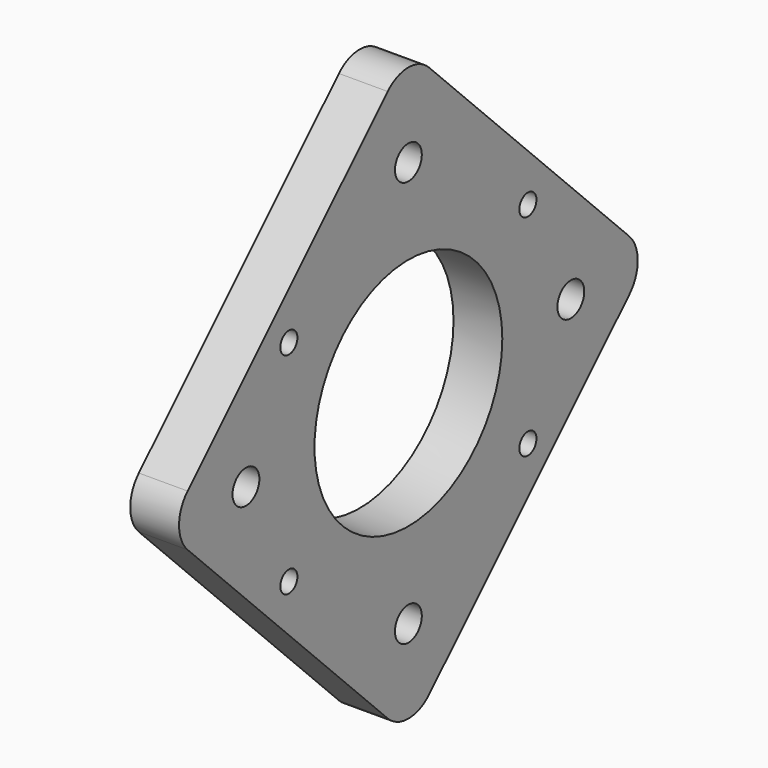
from build123d import *

# Parameters (mm, degrees)
F0_R     = 1.75
F0_R_2   = 2.75
F0_R_3   = 19.25
F1_DEPTH = 8
F2_R     = 3
F3_DEPTH = 3.5


with BuildPart() as f1:
    # F0 (on Right) → F1 (new body)
    with BuildSketch(Plane.YZ):
        with BuildLine():
            ThreePointArc((4.242641, 45.254834), (0, 47.012193), (-4.242641, 45.254834))
            Line((-4.242641, 45.254834), (-45.254834, 4.242641))
            ThreePointArc((-45.254834, 4.242641), (-47.012193, 0), (-45.254834, -4.242641))
            Line((-45.254834, -4.242641), (-4.242641, -45.254834))
            ThreePointArc((-4.242641, -45.254834), (0, -47.012193), (4.242641, -45.254834))
            Line((4.242641, -45.254834), (45.254834, -4.242641))
            ThreePointArc((45.254834, -4.242641), (47.012193, 0), (45.254834, 4.242641))
            Line((45.254834, 4.242641), (4.242641, 45.254834))
        make_face()
        with Locations((-24.5, -17.25)):
            Circle(F0_R, mode=Mode.SUBTRACT)
        with Locations((0, -33.3)):
            Circle(F0_R_2, mode=Mode.SUBTRACT)
        with Locations((24.5, -17.25)):
            Circle(F0_R, mode=Mode.SUBTRACT)
        with Locations((-33.3, 0)):
            Circle(F0_R_2, mode=Mode.SUBTRACT)
        with Locations((-24.5, 17.25)):
            Circle(F0_R, mode=Mode.SUBTRACT)
        Circle(F0_R_3, mode=Mode.SUBTRACT)
        with Locations((33.3, 0)):
            Circle(F0_R_2, mode=Mode.SUBTRACT)
        with Locations((24.5, 17.25)):
            Circle(F0_R, mode=Mode.SUBTRACT)
        with Locations((0, 33.3)):
            Circle(F0_R_2, mode=Mode.SUBTRACT)
    extrude(amount=F1_DEPTH)

    # F2 (on face) → F3 (cut)
    with BuildSketch(Plane(origin=(0, 0, 0), x_dir=(0, -1, 0), z_dir=(-1, 0, 0))):
        with Locations((24.5, 17.25)):
            Circle(F2_R)
        with Locations((-24.5, 17.25)):
            Circle(F2_R)
        with Locations((-24.5, -17.25)):
            Circle(F2_R)
        with Locations((24.5, -17.25)):
            Circle(F2_R)
    extrude(amount=-F3_DEPTH, mode=Mode.SUBTRACT)


solid = f1.part
